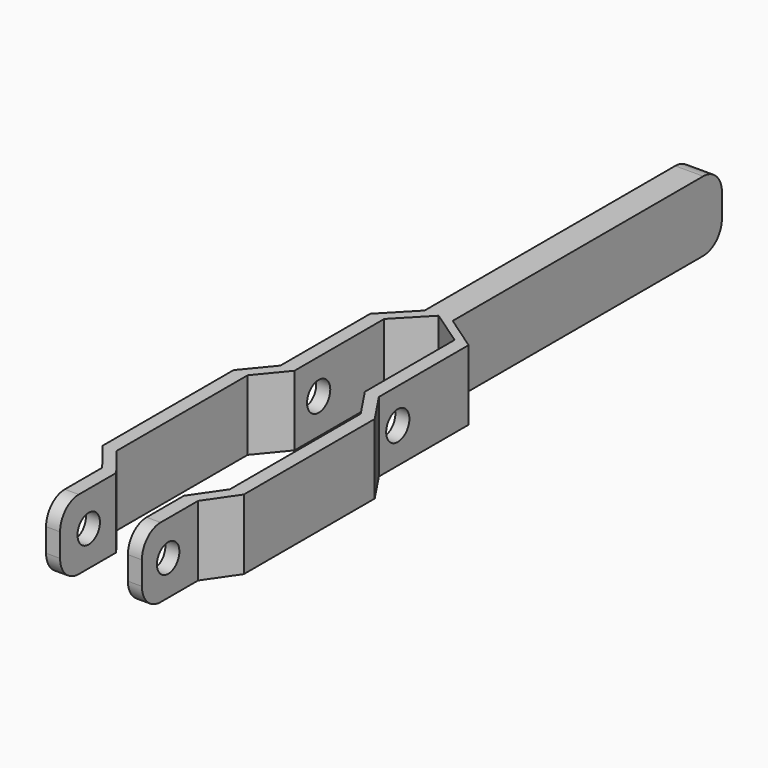
from build123d import *

# Parameters (mm, degrees)
F1_DEPTH = 15
F2_R     = 5
F3_R     = 5
F4_R     = 3.105154
F5_DEPTH = 25
F6_R     = 3
F7_DEPTH = 25


with BuildPart() as f1:
    # F0 (on Top) → F1 (new body)
    with BuildSketch(Plane.XY):
        Polygon((3, 72), (-3, 72), (-3, 0), (-9.367348, -6.612246), (-9.367348, -30.612246), (-14.458097, -36.783492), (-14.458097, -71.783492), (-9.532944, -78.087687), (-9.532944, -93.087687), (-6.532944, -93.087687), (-6.532944, -78.087687), (-11.458097, -71.783492), (-11.458097, -36.783492), (-6.367348, -30.612246), (-6.367348, -6.612246), (0, 0), (7.561686, -5.204405), (7.561686, -29.204405), (11.999285, -35.860809), (11.999285, -70.860809), (7.467056, -77.453145), (7.467056, -92.453145), (10.467056, -92.453145), (10.467056, -77.453145), (14.999285, -70.860809), (14.999285, -35.860809), (10.561686, -29.204405), (10.561686, -5.204405), (3, 0), align=None)
    extrude(amount=F1_DEPTH)

    # F2
    f2_edges = [f1.edges().sort_by_distance(p)[0] for p in [
        (-8.032944, -93.087687, 15),
        (-8.032944, -93.087687, 0),
        (8.967056, -92.453145, 15),
        (8.967056, -92.453145, 0),
    ]]
    fillet(f2_edges, radius=F2_R)

    # F3
    f3_edges = [f1.edges().sort_by_distance(p)[0] for p in [
        (0, 72, 15),
        (0, 72, 0),
    ]]
    fillet(f3_edges, radius=F3_R)

    # F4 (on face) → F5 (cut)
    with BuildSketch(Plane.YZ.offset(10.561686)):
        with Locations((-24.143221, 7.553654)):
            Circle(F4_R)
    extrude(amount=-F5_DEPTH, mode=Mode.SUBTRACT)

    # F6 (on face) → F7 (cut)
    with BuildSketch(Plane.YZ.offset(10.467056)):
        with Locations((-85.437857, 7.5)):
            Circle(F6_R)
    extrude(amount=-F7_DEPTH, mode=Mode.SUBTRACT)


solid = f1.part
